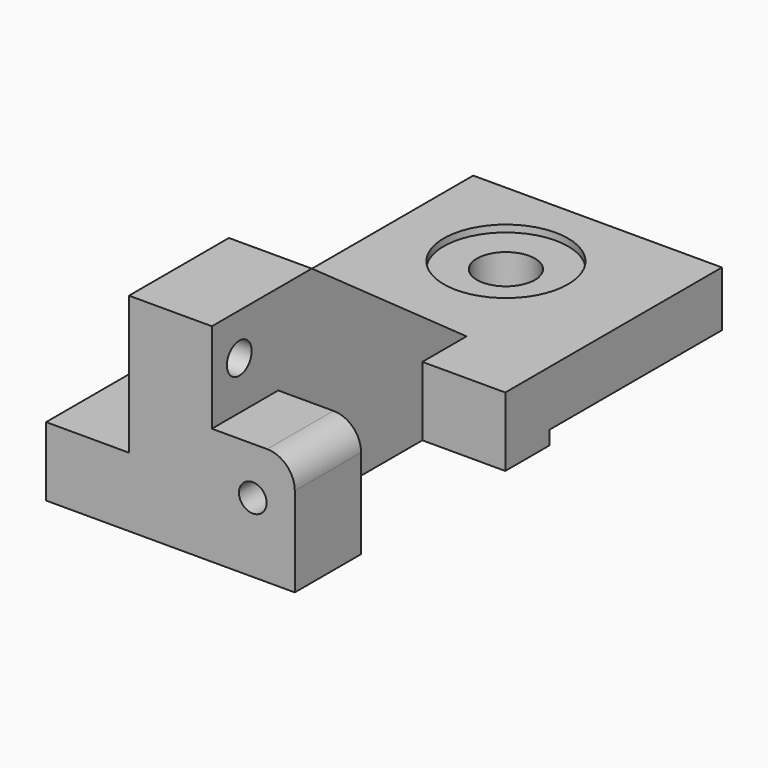
from build123d import *

# Parameters (mm, degrees)
F0_W            = 73.152
F0_H            = 15.875
F1_DEPTH        = 19.05
F3_D            = 7.112
F4_W            = 19.05
F4_H            = 26.924
F5_DEPTH        = 19.05
F7_D            = 6.35
F8_DEPTH        = 19.05
F9_DEPTH        = 49.53
F10_DEPTH       = 38.1
F11_DEPTH       = 12.7
F13_W           = 57.15
F13_H           = 49.53
F14_DEPTH       = 3.175
F16_D           = 13.335
F16_CBORE_D     = 28.575
F16_CBORE_DEPTH = 1.6002
F17_DEPTH       = 25.4


with BuildPart() as f1:
    # F0 (on Right) → F1 (new body)
    with BuildSketch(Plane.YZ):
        Polygon((0, 47.6504), (0, 15.875), (73.152, 15.875), (28.702, 47.6504), align=None)
        with Locations((36.576, 7.9375)):
            Rectangle(F0_W, F0_H)
    extrude(amount=F1_DEPTH)

    # F3 (through all)
    with Locations(Plane.YZ.offset(19.05)):
        with Locations((7.874, 37.9984)):
            Hole(F3_D / 2)

    # F4 (on face) → F5 (join)
    with BuildSketch(Plane.YZ.offset(19.05)):
        with Locations((9.525, 13.462)):
            Rectangle(F4_W, F4_H)
    extrude(amount=F5_DEPTH)

    # F7 (through all)
    with Locations(Plane(origin=(0, 19.05, 0), x_dir=(-1, 0, 0), z_dir=(0, 1, 0))):
        with Locations((-28.448, 16.002)):
            Hole(F7_D / 2)


with BuildPart() as f8:
    # F0 (on Right) → F8 (new body)
    with BuildSketch(Plane.YZ):
        with Locations((36.576, 7.9375)):
            Rectangle(F0_W, F0_H)
    extrude(amount=-F8_DEPTH)


with BuildPart() as f9:
    # F9 (new): a face of the model
    f9_faces = [f8.part.faces().sort_by_distance(p)[0] for p in [
        (-9.525, 73.152, 7.9375),
    ]]
    extrude(f9_faces, amount=F9_DEPTH)


with BuildPart() as f10:
    # F10 (new): a face of the model
    f10_faces = [f9.part.faces().sort_by_distance(p)[0] for p in [
        (0, 97.917, 7.9375),
    ]]
    extrude(f10_faces, amount=F10_DEPTH)


with BuildPart() as f11:
    # F11 (new): a face of the model
    f11_faces = [f10.part.faces().sort_by_distance(p)[0] for p in [
        (19.05, 73.152, 7.9375),
    ]]
    extrude(f11_faces, amount=F11_DEPTH)


with BuildPart() as f1_1:
    add(f1.part)

    # F12: union F8, F9, F10, F11
    add(f8.part)
    add(f9.part)
    add(f10.part)
    add(f11.part)

    # F13 (on Top) → F14 (cut)
    with BuildSketch(Plane.XY):
        with Locations((9.525, 97.917)):
            Rectangle(F13_W, F13_H)
    extrude(amount=F14_DEPTH, mode=Mode.SUBTRACT)

    # F16 (through all)
    with Locations(Plane.XY.offset(15.875)):
        with Locations((6.35, 100.33)):
            CounterBoreHole(F16_D / 2, F16_CBORE_D / 2, F16_CBORE_DEPTH)

    # F6 (on face) → F17 (cut)
    with BuildSketch(Plane(origin=(0, 19.05, 0), x_dir=(-1, 0, 0), z_dir=(0, 1, 0))):
        with BuildLine():
            ThreePointArc((-38.1, 20.574), (-36.2401280605, 25.0641280605), (-31.75, 26.924))
            Line((-31.75, 26.924), (-38.1, 26.924))
            Line((-38.1, 26.924), (-38.1, 20.574))
        make_face()
    extrude(amount=-F17_DEPTH, mode=Mode.SUBTRACT)


solid = f1_1.part
